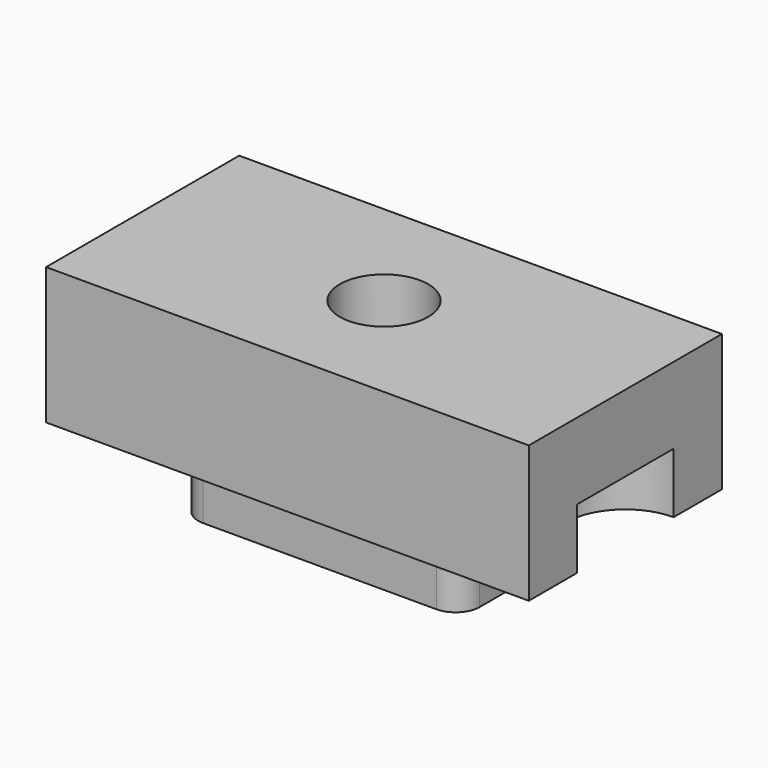
from build123d import *

# Parameters (mm, degrees)
F0_W     = 3048
F0_H     = 1524
F1_DEPTH = 863.6
F3_DEPTH = 381
F5_DEPTH = 406.4
F6_R     = 279.4
F7_DEPTH = 1270.001


with BuildPart() as f1:
    # F0 (on Top) → F1 (new body)
    with BuildSketch(Plane.XY):
        Rectangle(F0_W, F0_H)
    extrude(amount=F1_DEPTH)

    # F2 (on face) → F3 (cut)
    with BuildSketch(Plane(origin=(0, 0, 0), x_dir=(1, 0, 0), z_dir=(0, 0, -1))):
        with BuildLine():
            ThreePointArc((-1524, -381), (-1143, 0), (-1524, 381))
            Line((-1524, 381), (-1524, -381))
        make_face()
        with BuildLine():
            Line((1524, -381), (1524, 381))
            ThreePointArc((1524, 381), (1143, 0), (1524, -381))
        make_face()
    extrude(amount=-F3_DEPTH, mode=Mode.SUBTRACT)

    # F4 (on face) → F5 (join)
    with BuildSketch(Plane(origin=(0, 0, 0), x_dir=(1, 0, 0), z_dir=(0, 0, -1))):
        with BuildLine():
            ThreePointArc((889, 355.6), (844.363073, 463.363073), (736.6, 508))
            Line((736.6, 508), (-736.6, 508))
            ThreePointArc((-736.6, 508), (-844.363073, 463.363073), (-889, 355.6))
            Line((-889, 355.6), (-889, -355.6))
            ThreePointArc((-889, -355.6), (-844.363073, -463.363073), (-736.6, -508))
            Line((-736.6, -508), (736.6, -508))
            ThreePointArc((736.6, -508), (844.363073, -463.363073), (889, -355.6))
            Line((889, -355.6), (889, 355.6))
        make_face()
    extrude(amount=F5_DEPTH)

    # F6 (on face) → F7 (cut, through all)
    with BuildSketch(Plane(origin=(0, 0, -406.4), x_dir=(1, 0, 0), z_dir=(0, 0, -1))):
        Circle(F6_R)
    extrude(amount=-F7_DEPTH, mode=Mode.SUBTRACT)


solid = f1.part
